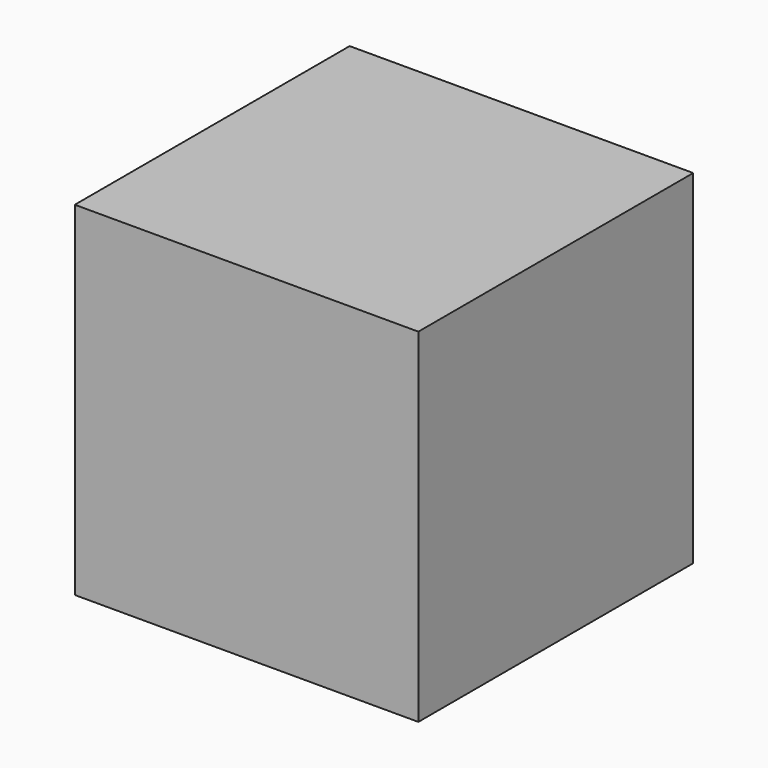
from build123d import *

# Parameters (mm, degrees)
F0_W     = 25.4
F0_H     = 50.8
F1_DEPTH = 50.8
F3_DEPTH = 25.4


with BuildPart() as f1:
    # F0 (on Front) → F1 (new body)
    with BuildSketch(Plane.XZ):
        with Locations((-12.7, 25.4)):
            Rectangle(F0_W, F0_H)
    extrude(amount=F1_DEPTH)

    # F2 (on face) → F3 (join)
    with BuildSketch(Plane(origin=(-25.4, 0, 0), x_dir=(0, -1, 0), z_dir=(-1, 0, 0))):
        Polygon((25.4, 25.4), (25.4, 0), (50.8, 0), (50.8, 50.8), (0, 50.8), (0, 25.4), align=None)
    extrude(amount=F3_DEPTH)


solid = f1.part
